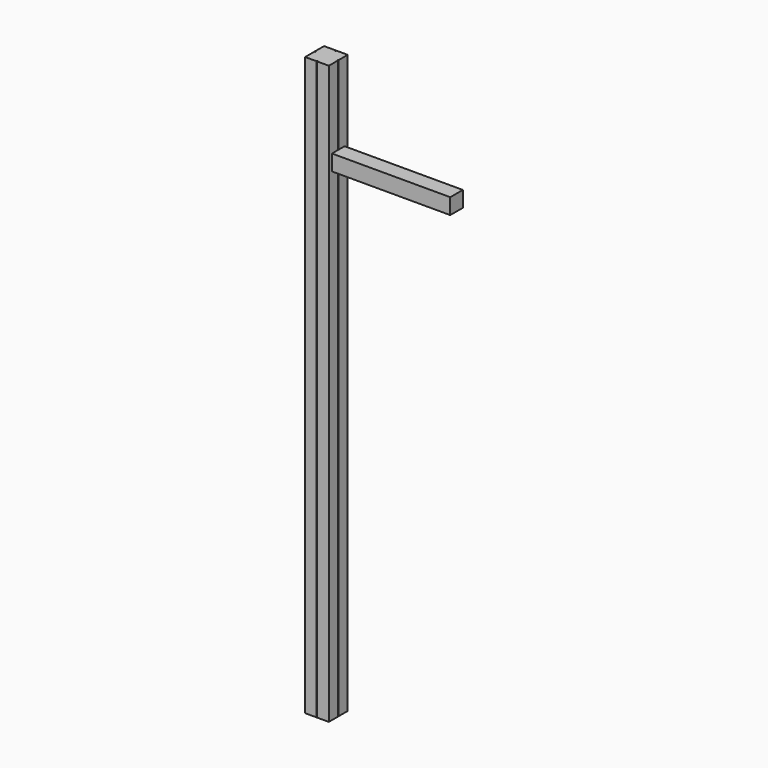
from build123d import *

# Parameters (mm, degrees)
F0_W     = 60
F0_H     = 60
F1_DEPTH = 1465
F2_W     = 2
F2_H     = 2
F3_DEPTH = 1465
F4_W     = 40
F4_H     = 40
F5_DEPTH = 300


with BuildPart() as f1:
    # F0 (on Top) → F1 (new body)
    with BuildSketch(Plane.XY):
        Rectangle(F0_W, F0_H)
    extrude(amount=F1_DEPTH)

    # F2 (on face) → F3 (cut, through all)
    with BuildSketch(Plane.XY.offset(1465)):
        with Locations((0, 29)):
            Rectangle(F2_W, F2_H)
        with Locations((-29, 0)):
            Rectangle(F2_W, F2_H)
        with Locations((0, -29)):
            Rectangle(F2_W, F2_H)
        with Locations((29, 0)):
            Rectangle(F2_W, F2_H)
    extrude(amount=-F3_DEPTH, mode=Mode.SUBTRACT)

    # F4 (on face) → F5 (join)
    with BuildSketch(Plane.YZ.offset(30)):
        with Locations((0, 1245)):
            Rectangle(F4_W, F4_H)
    extrude(amount=F5_DEPTH)


solid = f1.part
